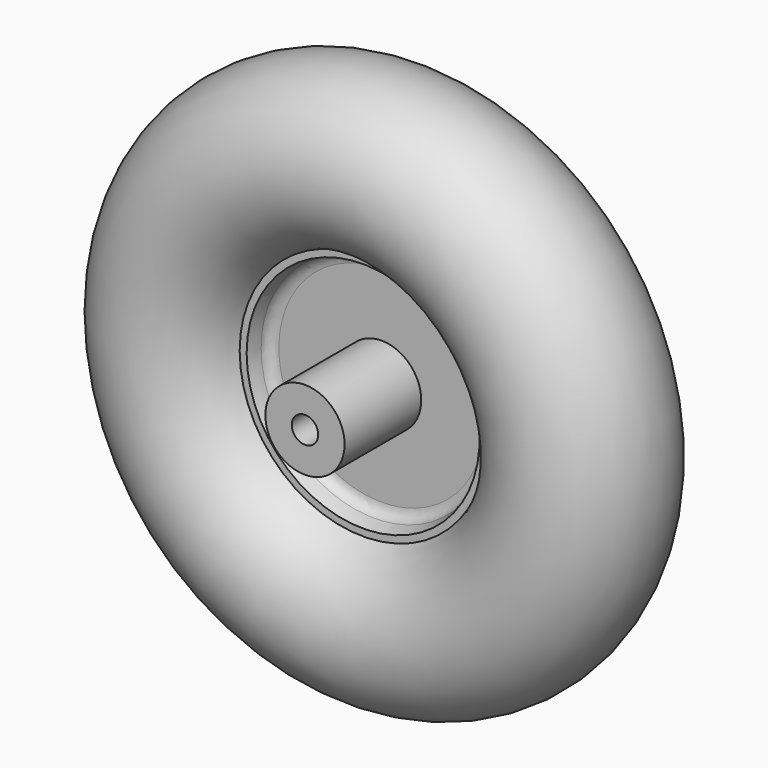
from build123d import *

# Parameters (mm, degrees)
F2_R     = 5.08
F3_R     = 19.05
F4_DEPTH = 46.0375
F5_R     = 19.05
F5_R_2   = 6.35
F6_DEPTH = 2.032
F7_DEPTH = 50.8
F8_DEPTH = 4.064


with BuildPart() as f1:
    # F0 (on Top) → F1 (revolve)
    with BuildSketch(Plane.XY):
        with BuildLine():
            Line((-55.977418916, 12.7), (-59.3289755157, 12.7))
            ThreePointArc((-59.3289755157, 12.7), (-57.8411023036, 7.2238752162), (-57.1830872837, 1.5875))
            Line((-57.1830872837, 1.5875), (-54.0055401448, 1.5875))
            ThreePointArc((-54.0055401448, 1.5875), (-54.6098673173, 7.2114659075), (-55.977418916, 12.7))
        make_face()
        with BuildLine():
            ThreePointArc((-57.1830872837, -1.5875), (-57.8411023036, -7.2238752162), (-59.3289755157, -12.7))
            Line((-59.3289755157, -12.7), (-55.977418916, -12.7))
            ThreePointArc((-55.977418916, -12.7), (-54.6098673173, -7.2114659075), (-54.0055401448, -1.5875))
            Line((-54.0055401448, -1.5875), (-57.1830872837, -1.5875))
        make_face()
        with BuildLine():
            Line((0, 1.5875), (-54.0055401448, 1.5875))
            ThreePointArc((-54.0055401448, 1.5875), (-53.9826357425, 0.7938968684), (-53.975, 0))
            Line((-53.975, 0), (0, 0))
            Line((0, 0), (0, 1.5875))
        make_face()
        with BuildLine():
            ThreePointArc((-57.15, 0), (-57.1582727191, 0.7939223857), (-57.1830872837, 1.5875))
            Line((-57.1830872837, 1.5875), (-63.1518885493, 1.5875))
            Line((-63.1518885493, 1.5875), (-63.1518885493, 0))
            Line((-63.1518885493, 0), (-57.15, 0))
        make_face()
        with BuildLine():
            Line((-54.0055401448, 1.5875), (-57.1830872837, 1.5875))
            ThreePointArc((-57.1830872837, 1.5875), (-57.1582727191, 0.7939223857), (-57.15, 0))
            Line((-57.15, 0), (-53.975, 0))
            ThreePointArc((-53.975, 0), (-53.9826357425, 0.7938968684), (-54.0055401448, 1.5875))
        make_face()
        with BuildLine():
            ThreePointArc((-57.1830872837, 1.5875), (-57.8411023036, 7.2238752162), (-59.3289755157, 12.7))
            ThreePointArc((-59.3289755157, 12.7), (-133.35, 0), (-59.3289755157, -12.7))
            ThreePointArc((-59.3289755157, -12.7), (-57.8411023036, -7.2238752162), (-57.1830872837, -1.5875))
            Line((-57.1830872837, -1.5875), (-63.1518885493, -1.5875))
            Line((-63.1518885493, -1.5875), (-63.1518885493, 0))
            Line((-63.1518885493, 0), (-63.1518885493, 1.5875))
            Line((-63.1518885493, 1.5875), (-57.1830872837, 1.5875))
        make_face()
        with BuildLine():
            Line((-63.1518885493, -1.5875), (-57.1830872837, -1.5875))
            ThreePointArc((-57.1830872837, -1.5875), (-57.1582727191, -0.7939223857), (-57.15, 0))
            Line((-57.15, 0), (-63.1518885493, 0))
            Line((-63.1518885493, 0), (-63.1518885493, -1.5875))
        make_face()
        with BuildLine():
            ThreePointArc((-53.975, 0), (-53.9826357425, -0.7938968684), (-54.0055401448, -1.5875))
            Line((-54.0055401448, -1.5875), (0, -1.5875))
            Line((0, -1.5875), (0, 0))
            Line((0, 0), (-53.975, 0))
        make_face()
        with BuildLine():
            ThreePointArc((-57.15, 0), (-57.1582727191, -0.7939223857), (-57.1830872837, -1.5875))
            Line((-57.1830872837, -1.5875), (-54.0055401448, -1.5875))
            ThreePointArc((-54.0055401448, -1.5875), (-53.9826357425, -0.7938968684), (-53.975, 0))
            Line((-53.975, 0), (-57.15, 0))
        make_face()
    revolve(axis=Axis((0, 0.79375, 0), (0, 1, 0)))

    # F2
    f2_edges = [f1.edges().sort_by_distance(p)[0] for p in [
        (54.00554, -1.5875, 0),
        (54.00554, 1.5875, 0),
    ]]
    fillet(f2_edges, radius=F2_R)

    # F3 (on face) → F4 (join)
    with BuildSketch(Plane.XZ.offset(1.5875)):
        Circle(F3_R)
    extrude(amount=F4_DEPTH)

    # F5 (on face) → F6 (cut)
    with BuildSketch(Plane(origin=(0, 1.5875, 0), x_dir=(-1, 0, 0), z_dir=(0, 1, 0))):
        Circle(F5_R)
        Circle(F5_R_2, mode=Mode.SUBTRACT)
    extrude(amount=-F6_DEPTH, mode=Mode.SUBTRACT)

    # F7 (cut): a face of the model
    f7_faces = [f1.faces().sort_by_distance(p)[0] for p in [
        (0, 1.5875, 0),
    ]]
    extrude(f7_faces, amount=-F7_DEPTH, mode=Mode.SUBTRACT)

    # F8 (add): a face of the model
    f8_faces = [f1.faces().sort_by_distance(p)[0] for p in [
        (18.5111846327, -0.4445, 0),
    ]]
    extrude(f8_faces, amount=F8_DEPTH)


solid = f1.part
